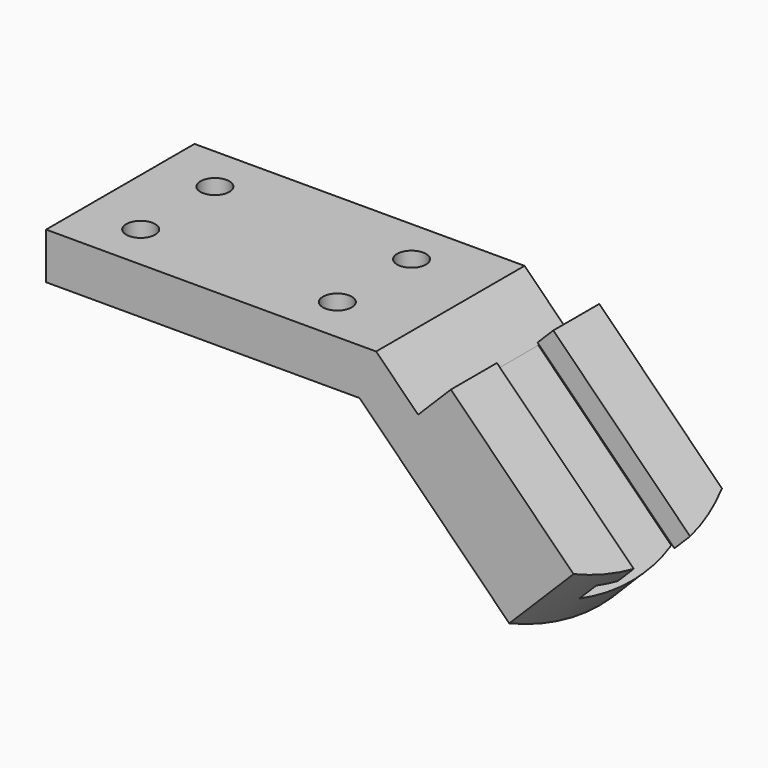
from build123d import *

# Parameters (mm, degrees)
F0_W           = 85.852
F0_H           = 50.8
F1_DEPTH       = 12.7
F3_D           = 7.9248
F3_CBORE_D     = 12.7
F3_CBORE_DEPTH = 6.096
F5_DEPTH       = 50.8
F7_DEPTH       = 25.4
F9_DEPTH       = 12.7
F10_W          = 50.8
F10_H          = 47.481018
F11_DEPTH      = 12.7
F13_DEPTH      = 66.290802


with BuildPart() as f1:
    # F0 (on Top) → F1 (new body)
    with BuildSketch(Plane.XY):
        with Locations((42.926, 25.4)):
            Rectangle(F0_W, F0_H)
    extrude(amount=-F1_DEPTH)

    # F3 (through all)
    with Locations(Plane(origin=(0, 0, -12.7), x_dir=(1, 0, 0), z_dir=(0, 0, -1))):
        with Locations((69.596, -12.7), (15.748, -12.7), (15.748, -38.1), (69.596, -38.1)):
            CounterBoreHole(F3_D / 2, F3_CBORE_D / 2, F3_CBORE_DEPTH)

    # F4 (on Front) → F5 (join)
    with BuildSketch(Plane.XZ):
        Polygon((85.852, 0), (85.852, -12.7), (131.338123, -58.186123), (139.953232, -49.571014), (90.382218, 0), align=None)
    extrude(amount=-F5_DEPTH)

    # F6 (on face) → F7 (cut)
    with BuildSketch(Plane(origin=(45.191109, 0, 45.191109), x_dir=(0, 1, 0), z_dir=(0.707107, 0, 0.707107))):
        with BuildLine():
            ThreePointArc((50.8, -127.646898), (38.492922, -132.397886), (25.4, -134.01388))
            Line((25.4, -134.01388), (50.8, -134.01388))
            Line((50.8, -134.01388), (50.8, -127.646898))
        make_face()
        with BuildLine():
            Line((0, -134.01388), (25.4, -134.01388))
            ThreePointArc((25.4, -134.01388), (12.307078, -132.397886), (0, -127.646898))
            Line((0, -127.646898), (0, -134.01388))
        make_face()
    extrude(amount=-F7_DEPTH, mode=Mode.SUBTRACT)

    # F8 (on face) → F9 (join)
    with BuildSketch(Plane(origin=(45.191109, 0, 45.191109), x_dir=(0, 1, 0), z_dir=(0.707107, 0, 0.707107))):
        with BuildLine():
            Line((50.8, -127.646898), (0, -127.646898))
            ThreePointArc((0, -127.646898), (12.307078, -132.397886), (25.4, -134.01388))
            ThreePointArc((25.4, -134.01388), (38.492922, -132.397886), (50.8, -127.646898))
        make_face()
    extrude(amount=F9_DEPTH)

    # F10 (on face) → F11 (join)
    with BuildSketch(Plane(origin=(45.191109, 0, 45.191109), x_dir=(0, 1, 0), z_dir=(0.707107, 0, 0.707107))):
        with Locations((25.4, -103.906389)):
            Rectangle(F10_W, F10_H)
    extrude(amount=F11_DEPTH)

    # F12 (on face) → F13 (cut, through all)
    with BuildSketch(Plane(origin=(56.685837, 0, -56.685837), x_dir=(0.707107, 0, 0.707107), z_dir=(-0.707107, 0, 0.707107))):
        Polygon((76.60988, 15.748), (76.60988, 35.052), (70.51388, 35.052), (70.51388, 41.148), (63.90988, 41.148), (63.90988, 9.652), (70.51388, 9.652), (70.51388, 15.748), align=None)
    extrude(amount=-F13_DEPTH, mode=Mode.SUBTRACT)


solid = f1.part
